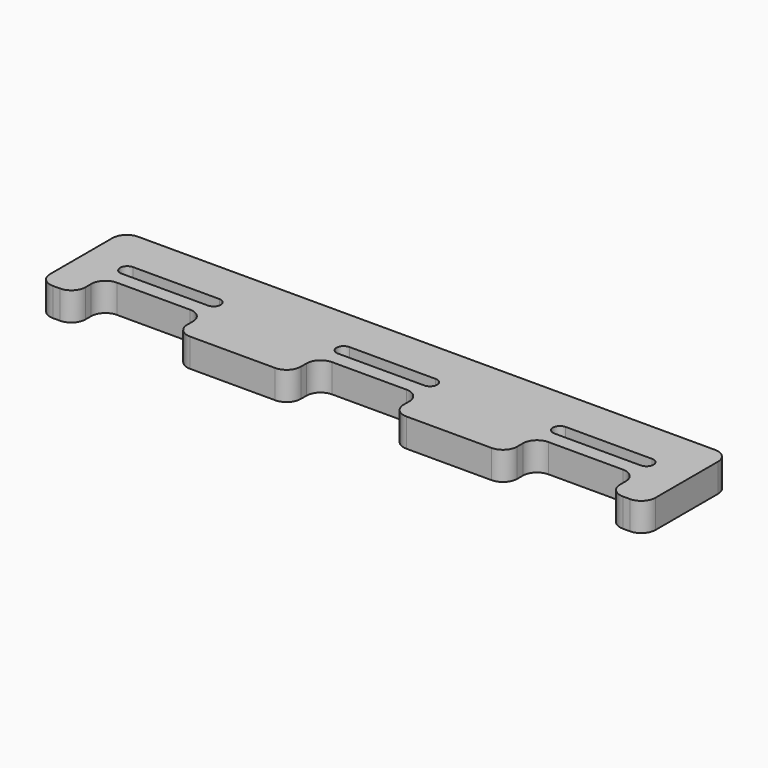
from build123d import *

# Parameters (mm, degrees)
F0_W     = 2.5
F0_H     = 2.5
F0_W_2   = 8
F0_W_3   = 5.5
F1_DEPTH = 2
F2_R     = 1


with BuildPart() as f1:
    # F0 (on Top) → F1 (new body)
    with BuildSketch(Plane.XY):
        with Locations((26.15, -6.25)):
            Rectangle(F0_W, F0_H)
        with Locations((13.66, -6.25)):
            Rectangle(F0_W_2, F0_H)
        with Locations((1.25, -6.25)):
            Rectangle(F0_W, F0_H)
        Polygon((27.4, 0), (0, 0), (0, -5), (2.5, -5), (9.66, -5), (17.66, -5), (24.9, -5), (27.4, -5), align=None)
        with BuildLine():
            Line((9.12, -4), (3.04, -4))
            ThreePointArc((3.04, -4), (2.54, -3.5), (3.04, -3))
            Line((3.04, -3), (9.12, -3))
            ThreePointArc((9.12, -3), (9.62, -3.5), (9.12, -4))
        make_face(mode=Mode.SUBTRACT)
        with BuildLine():
            Line((24.36, -4), (18.28, -4))
            ThreePointArc((18.28, -4), (17.78, -3.5), (18.28, -3))
            Line((18.28, -3), (24.36, -3))
            ThreePointArc((24.36, -3), (24.86, -3.5), (24.36, -4))
        make_face(mode=Mode.SUBTRACT)
        Polygon((42.64, 0), (27.4, 0), (27.4, -5), (32.9, -5), (40.14, -5), (42.64, -5), align=None)
        with BuildLine():
            Line((39.6, -4), (33.52, -4))
            ThreePointArc((33.52, -4), (33.02, -3.5), (33.52, -3))
            Line((33.52, -3), (39.6, -3))
            ThreePointArc((39.6, -3), (40.1, -3.5), (39.6, -4))
        make_face(mode=Mode.SUBTRACT)
        with Locations((30.15, -6.25)):
            Rectangle(F0_W_3, F0_H)
        with Locations((41.39, -6.25)):
            Rectangle(F0_W, F0_H)
    extrude(amount=F1_DEPTH)

    # F2
    f2_edges = [f1.edges().sort_by_distance(p)[0] for p in [
        (0, -7.5, 1),
        (2.5, -7.5, 1),
        (2.5, -5, 1),
        (9.66, -7.5, 1),
        (17.66, -7.5, 1),
        (17.66, -5, 1),
        (24.9, -7.5, 1),
        (32.9, -5, 1),
        (32.9, -7.5, 1),
        (40.14, -7.5, 1),
        (42.64, -7.5, 1),
        (42.64, 0, 1),
        (40.14, -5, 1),
        (24.9, -5, 1),
        (9.66, -5, 1),
        (0, 0, 1),
    ]]
    fillet(f2_edges, radius=F2_R)


solid = f1.part
